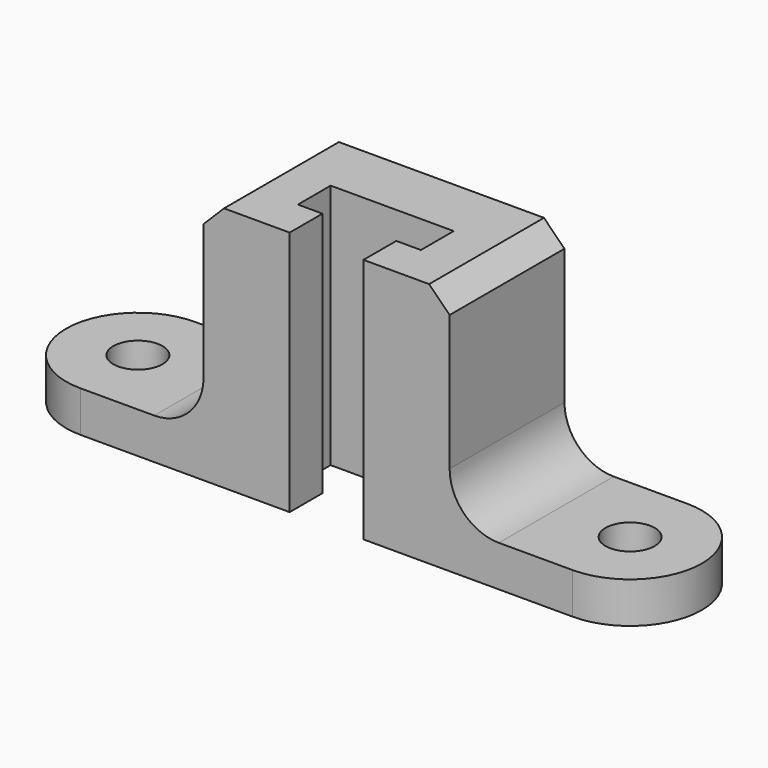
from build123d import *

# Parameters (mm, degrees)
F0_R     = 6
F1_DEPTH = 10
F2_W     = 60
F2_H     = 35
F3_DEPTH = 50
F4_R     = 12
F5_SIZE2 = 5
F5_SIZE  = 5
F7_DEPTH = 60.001


with BuildPart() as f1:
    # F0 (on Top) → F1 (new body)
    with BuildSketch(Plane.XY):
        with BuildLine():
            Line((60, 17.5), (-60, 17.5))
            ThreePointArc((-60, 17.5), (-77.5, 0), (-60, -17.5))
            Line((-60, -17.5), (60, -17.5))
            ThreePointArc((60, -17.5), (77.5, 0), (60, 17.5))
        make_face()
        with Locations((-60, 0)):
            Circle(F0_R, mode=Mode.SUBTRACT)
        with Locations((60, 0)):
            Circle(F0_R, mode=Mode.SUBTRACT)
    extrude(amount=F1_DEPTH)

    # F2 (on face) → F3 (join)
    with BuildSketch(Plane.XY.offset(10)):
        Rectangle(F2_W, F2_H)
    extrude(amount=F3_DEPTH)

    # F4
    f4_edges = [f1.edges().sort_by_distance(p)[0] for p in [
        (30, 0, 10),
        (-30, 0, 10),
    ]]
    fillet(f4_edges, radius=F4_R)

    # F5
    f5_edges = [f1.edges().sort_by_distance(p)[0] for p in [
        (30, 0, 60),
        (-30, 0, 60),
    ]]
    chamfer(f5_edges, length=F5_SIZE, length2=F5_SIZE2)

    # F6 (on face) → F7 (cut, through all)
    with BuildSketch(Plane.XY.offset(60)):
        Polygon((-9, -7.5), (-9, -17.5), (9, -17.5), (9, -7.5), (15, -7.5), (15, 2.5), (-15, 2.5), (-15, -7.5), align=None)
    extrude(amount=-F7_DEPTH, mode=Mode.SUBTRACT)


solid = f1.part
